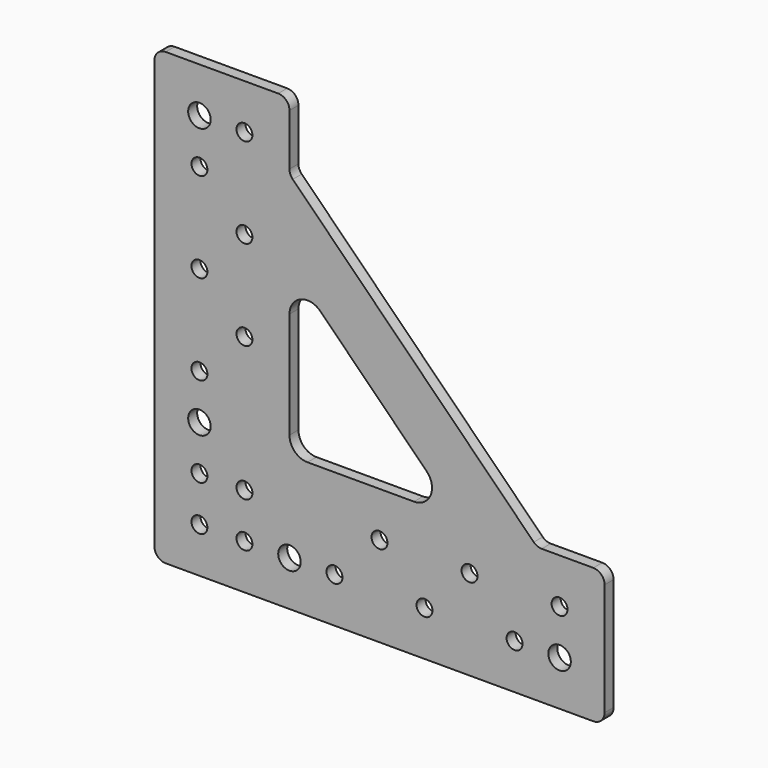
from build123d import *

# Parameters (mm, degrees)
F1_DEPTH = 3.175
F2_R     = 3.175
F3_R     = 5.08
F5_D     = 6.35
F6_D     = 4.4958


with BuildPart() as f1:
    # F0 (on Front) → F1 (new body)
    with BuildSketch(Plane.XZ):
        Polygon((-25.4, 63.5), (-63.5, 63.5), (-63.5, -63.5), (63.5, -63.5), (63.5, -25.4), (44.45, -25.4), (-25.4, 44.45), align=None)
        Polygon((-25.4, -25.4), (-25.4, 21.99936), (21.99936, -25.4), align=None, mode=Mode.SUBTRACT)
    extrude(amount=F1_DEPTH)

    # F2
    f2_edges = [f1.edges().sort_by_distance(p)[0] for p in [
        (-25.4, -1.5875, 63.5),
        (-25.4, -1.5875, 44.45),
        (44.45, -1.5875, -25.4),
        (63.5, -1.5875, -25.4),
        (63.5, -1.5875, -63.5),
        (-63.5, -1.5875, -63.5),
        (-63.5, -1.5875, 63.5),
    ]]
    fillet(f2_edges, radius=F2_R)

    # F3
    f3_edges = [f1.edges().sort_by_distance(p)[0] for p in [
        (21.99936, -1.5875, -25.4),
        (-25.4, -1.5875, -25.4),
        (-25.4, -1.5875, 21.99936),
    ]]
    fillet(f3_edges, radius=F3_R)

    # F5 (through all)
    with Locations(Plane.XZ.offset(3.175)):
        with Locations((-50.8, 50.8), (-50.8, -25.4), (50.8, -50.8), (-25.4, -50.8)):
            Hole(F5_D / 2)

    # F6 (through all)
    with Locations(Plane.XZ.offset(3.175)):
        with Locations((-50.8, 38.1), (-38.1, 50.8), (-38.1, 25.4), (-50.8, 12.7), (-38.1, 0), (-50.8, -12.7), (-38.1, -38.1), (-50.8, -38.1), (-50.8, -50.8), (-38.1, -50.8), (-12.7, -50.8), (0, -38.1), (12.7, -50.8), (25.4, -38.1), (38.1, -50.8), (50.8, -38.1)):
            Hole(F6_D / 2)


solid = f1.part
